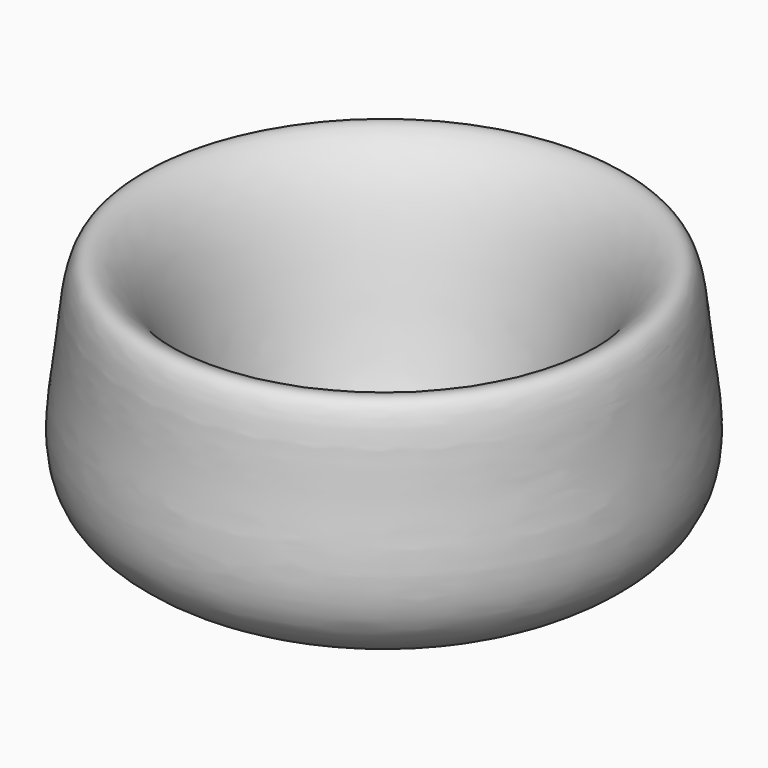
from build123d import *


with BuildPart() as f1:
    # F0 (on Front) → F1 (revolve)
    with BuildSketch(Plane.XZ):
        with BuildLine():
            add(Edge.make_bspline(
                [(0, -86.5230336785), (45.6421069741, -88.8772042614), (152.7510563088, -94.401768187), (191.3298824231, 149.5373521893), (287.8200610956, 223.6514843937), (292.4474921718, 91.9508148108), (329.9123656873, -77.4681104826), (123.1278930509, -115.267658771), (0, -137.7750486135)],
                knots=[0, 0, 0, 0, 0.1516824785, 0.3559553223, 0.4718563385, 0.6047446098, 0.7646488501, 1, 1, 1, 1], degree=3))
            Line((0, -86.5230336785), (0, -137.7750486135))
        make_face()
    revolve(axis=Axis((0, 0, -9.6450075507), (0, 0, -1)))


solid = f1.part
